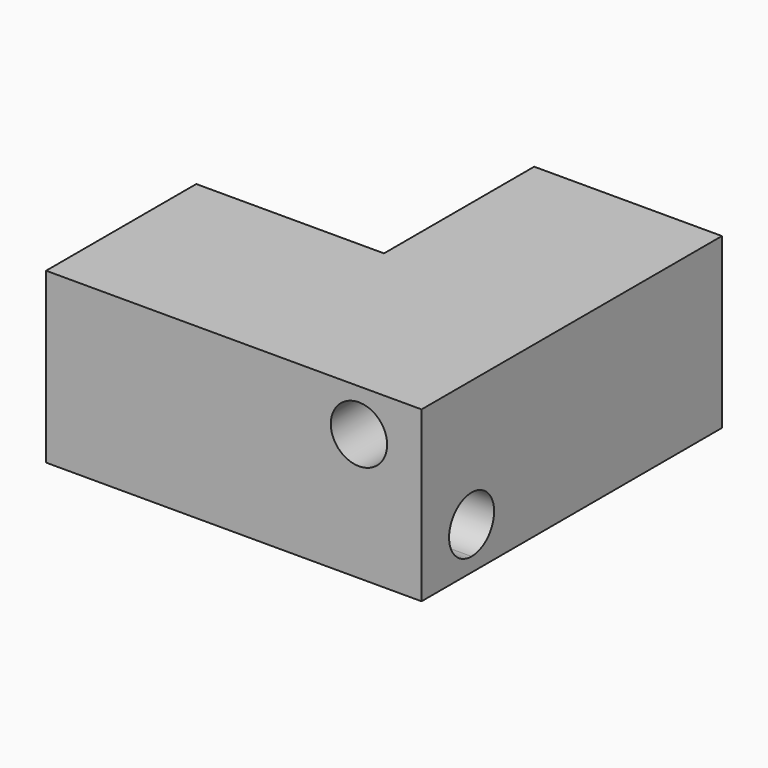
from build123d import *

# Parameters (mm, degrees)
F0_W      = 25
F0_H      = 10
F0_W_2    = 10
F0_H_2    = 30
F1_DEPTH  = 27
F3_DEPTH  = 5
F5_DEPTH  = 13.5
F7_DEPTH  = 10
F8_DEPTH  = 10
F9_R      = 4.5
F10_DEPTH = 60
F12_DEPTH = 60.001


with BuildPart() as f1:
    # F0 (on Top) → F1 (new body)
    with BuildSketch(Plane.XY):
        Polygon((20, 0), (10, 0), (10, -10), (-5, -10), (-5, -20), (20, -20), align=None)
        with Locations((-17.5, -15)):
            Rectangle(F0_W, F0_H)
        with Locations((15, 15)):
            Rectangle(F0_W_2, F0_H_2)
        Polygon((20, 0), (10, 0), (10, -10), (-5, -10), (-5, -20), (20, -20), align=None)
    extrude(amount=F1_DEPTH)

    # F0 (on Top) → F3 (join)
    with BuildSketch(Plane.XY):
        with Locations((5, 15)):
            Rectangle(F0_W_2, F0_H_2)
        Polygon((10, 0), (0, 0), (-30, 0), (-30, -10), (-5, -10), (10, -10), align=None)
    extrude(amount=F3_DEPTH)

    # F5 (cut, through all): a face of the model
    f5_faces = [f1.faces().sort_by_distance(p)[0] for p in [
        (-10, -10.7071067812, 27),
    ]]
    extrude(f5_faces, amount=-F5_DEPTH, mode=Mode.SUBTRACT)

    # F6: F1 across plane


with BuildPart() as f1_1:
    add(f1.part)
    add(f1.part.mirror(Plane(origin=(0, 0, 13.5), x_dir=(1, 0, 0), z_dir=(0, 0, -1))))

    # F7 (add): a face of the model
    f7_faces = [f1_1.faces().sort_by_distance(p)[0] for p in [
        (-5, -20, 13.5),
    ]]
    extrude(f7_faces, amount=F7_DEPTH)

    # F8 (add): a face of the model
    f8_faces = [f1_1.faces().sort_by_distance(p)[0] for p in [
        (20, 0, 13.5),
    ]]
    extrude(f8_faces, amount=F8_DEPTH)

    # F9 (on face) → F10 (cut, through all)
    with BuildSketch(Plane(origin=(0, 30, 0), x_dir=(-1, 0, 0), z_dir=(0, 1, 0))):
        with Locations((-20, 20.25)):
            Circle(F9_R)
    extrude(amount=-F10_DEPTH, mode=Mode.SUBTRACT)

    # F11 (on face) → F12 (cut, through all)
    with BuildSketch(Plane(origin=(-30, 0, 0), x_dir=(0, -1, 0), z_dir=(-1, 0, 0))):
        with BuildLine():
            ThreePointArc((24.5, 6.75), (23.1819805153, 9.9319805153), (20, 11.25))
            Line((20, 11.25), (20, 2.25))
            ThreePointArc((20, 2.25), (23.1819805153, 3.5680194847), (24.5, 6.75))
        make_face()
        with BuildLine():
            Line((20, 2.25), (20, 11.25))
            ThreePointArc((20, 11.25), (15.5, 6.75), (20, 2.25))
        make_face()
    extrude(amount=-F12_DEPTH, mode=Mode.SUBTRACT)


solid = f1_1.part
